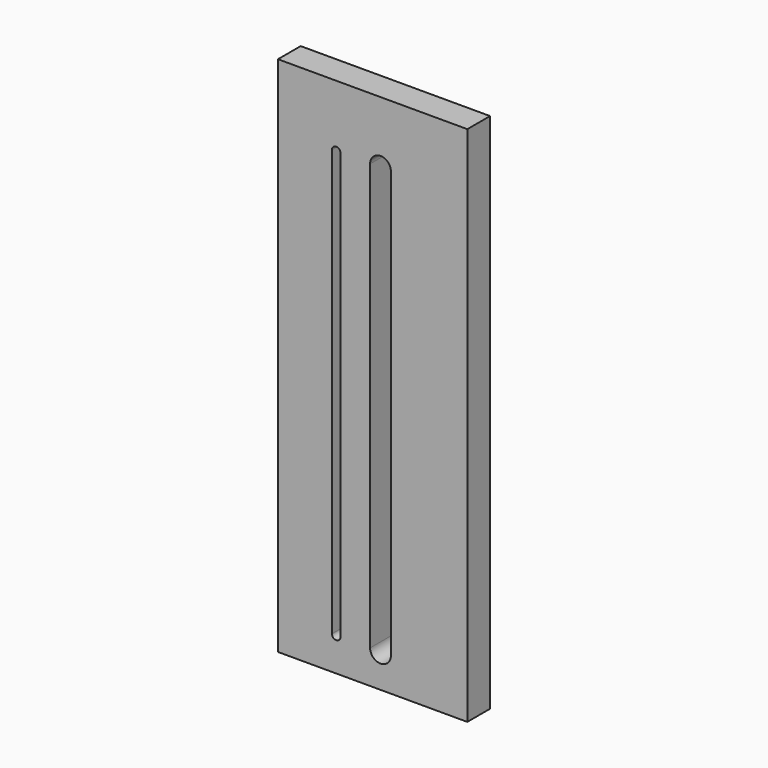
from build123d import *

# Parameters (mm, degrees)
F0_W     = 120
F0_H     = 330.65975
F1_DEPTH = 18


with BuildPart() as f1:
    # F0 (on Front) → F1 (new body)
    with BuildSketch(Plane.XZ):
        Rectangle(F0_W, F0_H)
        with BuildLine():
            ThreePointArc((-25.785, 125.918184), (-23.09, 128.613184), (-20.395, 125.918184))
            Line((-20.395, 125.918184), (-20.395, -144.081816))
            ThreePointArc((-20.395, -144.081816), (-23.09, -146.776816), (-25.785, -144.081816))
            Line((-25.785, -144.081816), (-25.785, 125.918184))
        make_face(mode=Mode.SUBTRACT)
        with BuildLine():
            ThreePointArc((-1.6, 125.918184), (5, 132.518184), (11.6, 125.918184))
            Line((11.6, 125.918184), (11.6, -144.081816))
            ThreePointArc((11.6, -144.081816), (5, -150.681816), (-1.6, -144.081816))
            Line((-1.6, -144.081816), (-1.6, 125.918184))
        make_face(mode=Mode.SUBTRACT)
    extrude(amount=F1_DEPTH)


solid = f1.part
